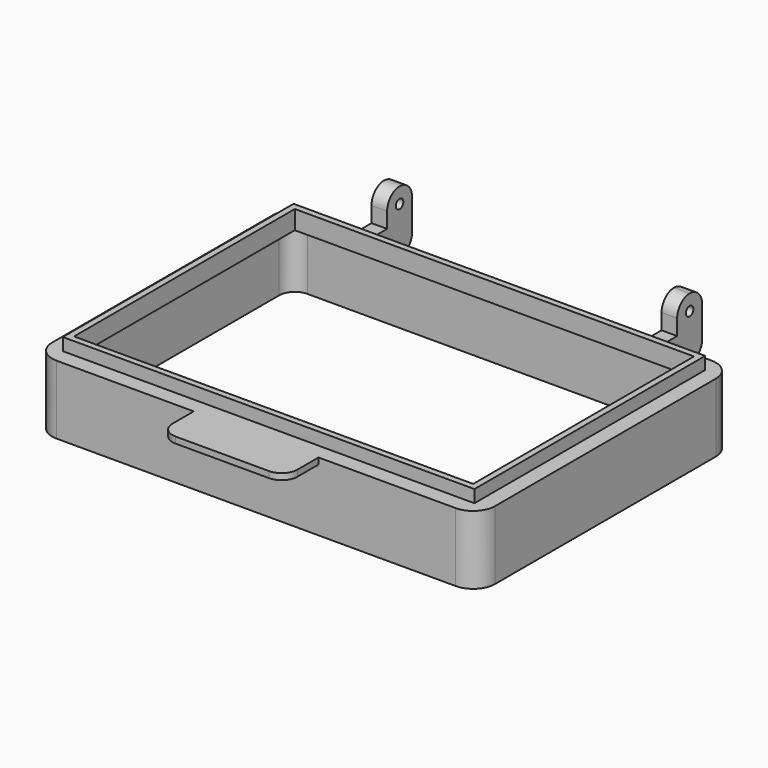
from build123d import *

# Parameters (mm, degrees)
F1_DEPTH  = 20
F0_W      = 132
F0_H      = 92.5
F2_DEPTH  = 2
F0_W_2    = 128
F0_H_2    = 88.5
F3_DEPTH  = 6
F4_W      = 5
F4_H      = 10
F5_DEPTH  = 10
F7_DEPTH  = 5
F9_R      = 1.5
F10_DEPTH = 5


with BuildPart() as f1:
    # F0 (on Top) → F1 (new body)
    with BuildSketch(Plane.XY):
        with BuildLine():
            Line((71, -44.25), (71, 44.25))
            ThreePointArc((71, 44.25), (68.949747, 49.199747), (64, 51.25))
            Line((64, 51.25), (-64, 51.25))
            ThreePointArc((-64, 51.25), (-68.949747, 49.199747), (-71, 44.25))
            Line((-71, 44.25), (-71, -44.25))
            ThreePointArc((-71, -44.25), (-68.949747, -49.199747), (-64, -51.25))
            Line((-64, -51.25), (-20, -51.25))
            Line((-20, -51.25), (20, -51.25))
            Line((20, -51.25), (64, -51.25))
            ThreePointArc((64, -51.25), (68.949747, -49.199747), (71, -44.25))
        make_face()
        with BuildLine():
            Line((-64, 49.25), (64, 49.25))
            ThreePointArc((64, 49.25), (67.535534, 47.785534), (69, 44.25))
            Line((69, 44.25), (69, -44.25))
            ThreePointArc((69, -44.25), (67.535534, -47.785534), (64, -49.25))
            Line((64, -49.25), (-64, -49.25))
            ThreePointArc((-64, -49.25), (-67.535534, -47.785534), (-69, -44.25))
            Line((-69, -44.25), (-69, 44.25))
            ThreePointArc((-69, 44.25), (-67.535534, 47.785534), (-64, 49.25))
        make_face(mode=Mode.SUBTRACT)
    extrude(amount=-F1_DEPTH)

    # F0 (on Top) → F2 (join)
    with BuildSketch(Plane.XY):
        with BuildLine():
            Line((20, -59.75), (20, -51.25))
            Line((20, -51.25), (-20, -51.25))
            Line((-20, -51.25), (-20, -59.75))
            ThreePointArc((-20, -59.75), (-18.535534, -63.285534), (-15, -64.75))
            Line((-15, -64.75), (15, -64.75))
            ThreePointArc((15, -64.75), (18.535534, -63.285534), (20, -59.75))
        make_face()
        with BuildLine():
            Line((71, -44.25), (71, 44.25))
            ThreePointArc((71, 44.25), (68.949747, 49.199747), (64, 51.25))
            Line((64, 51.25), (-64, 51.25))
            ThreePointArc((-64, 51.25), (-68.949747, 49.199747), (-71, 44.25))
            Line((-71, 44.25), (-71, -44.25))
            ThreePointArc((-71, -44.25), (-68.949747, -49.199747), (-64, -51.25))
            Line((-64, -51.25), (-20, -51.25))
            Line((-20, -51.25), (20, -51.25))
            Line((20, -51.25), (64, -51.25))
            ThreePointArc((64, -51.25), (68.949747, -49.199747), (71, -44.25))
        make_face()
        with BuildLine():
            Line((-64, 49.25), (64, 49.25))
            ThreePointArc((64, 49.25), (67.535534, 47.785534), (69, 44.25))
            Line((69, 44.25), (69, -44.25))
            ThreePointArc((69, -44.25), (67.535534, -47.785534), (64, -49.25))
            Line((64, -49.25), (-64, -49.25))
            ThreePointArc((-64, -49.25), (-67.535534, -47.785534), (-69, -44.25))
            Line((-69, -44.25), (-69, 44.25))
            ThreePointArc((-69, 44.25), (-67.535534, 47.785534), (-64, 49.25))
        make_face(mode=Mode.SUBTRACT)
        with BuildLine():
            ThreePointArc((69, 44.25), (67.535534, 47.785534), (64, 49.25))
            Line((64, 49.25), (-64, 49.25))
            ThreePointArc((-64, 49.25), (-67.535534, 47.785534), (-69, 44.25))
            Line((-69, 44.25), (-69, -44.25))
            ThreePointArc((-69, -44.25), (-67.535534, -47.785534), (-64, -49.25))
            Line((-64, -49.25), (64, -49.25))
            ThreePointArc((64, -49.25), (67.535534, -47.785534), (69, -44.25))
            Line((69, -44.25), (69, 44.25))
        make_face()
        Rectangle(F0_W, F0_H, mode=Mode.SUBTRACT)
    extrude(amount=F2_DEPTH)

    # F0 (on Top) → F3 (join)
    with BuildSketch(Plane.XY):
        Rectangle(F0_W, F0_H)
        Rectangle(F0_W_2, F0_H_2, mode=Mode.SUBTRACT)
    extrude(amount=F3_DEPTH)

    # F4 (on face) → F5 (join)
    with BuildSketch(Plane(origin=(0, 51.25, 0), x_dir=(-1, 0, 0), z_dir=(0, 1, 0))):
        with Locations((-46.5, -3)):
            Rectangle(F4_W, F4_H)
    extrude(amount=F5_DEPTH)

    # F6 (on face) → F7 (join)
    with BuildSketch(Plane.YZ.offset(49)):
        with BuildLine():
            Line((61.25, 2), (61.25, -8))
            ThreePointArc((61.25, -8), (64.785534, -6.535534), (66.25, -3))
            Line((66.25, -3), (66.25, 7))
            ThreePointArc((66.25, 7), (64.785534, 10.535534), (61.25, 12))
            Line((61.25, 12), (61.25, 8.5))
            ThreePointArc((61.25, 8.5), (62.31066, 8.06066), (62.75, 7))
            ThreePointArc((62.75, 7), (62.31066, 5.93934), (61.25, 5.5))
            Line((61.25, 5.5), (61.25, 2))
        make_face()
        with BuildLine():
            Line((56.25, 2), (61.25, 2))
            Line((61.25, 2), (61.25, 5.5))
            ThreePointArc((61.25, 5.5), (59.75, 7), (61.25, 8.5))
            Line((61.25, 8.5), (61.25, 12))
            ThreePointArc((61.25, 12), (57.714466, 10.535534), (56.25, 7))
            Line((56.25, 7), (56.25, 2))
        make_face()
    extrude(amount=-F7_DEPTH)

    # F9 (on offset) → F10 (join)
    with BuildSketch(Plane.YZ.offset(-49)):
        with BuildLine():
            Line((56.25, 2), (51.25, 2))
            Line((51.25, 2), (51.25, -8))
            Line((51.25, -8), (61.25, -8))
            ThreePointArc((61.25, -8), (64.785534, -6.535534), (66.25, -3))
            Line((66.25, -3), (66.25, 7))
            ThreePointArc((66.25, 7), (61.25, 12), (56.25, 7))
            Line((56.25, 7), (56.25, 2))
        make_face()
        with Locations((61.25, 7)):
            Circle(F9_R, mode=Mode.SUBTRACT)
    extrude(amount=F10_DEPTH)


solid = f1.part
